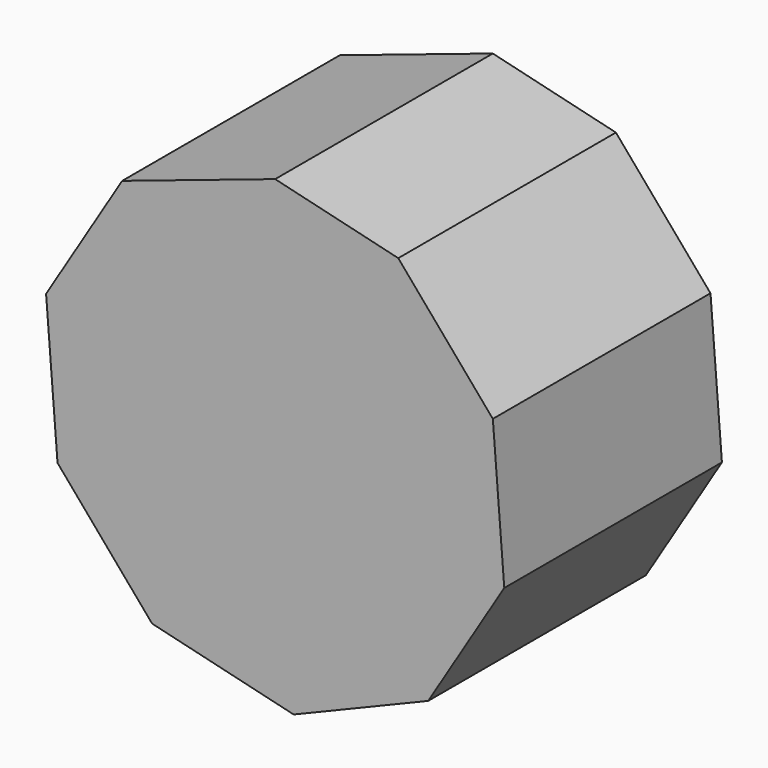
from build123d import *

# Parameters (mm, degrees)
F1_DEPTH = 25.4


with BuildPart() as f1:
    # F0 (on Front) → F1 (new body, symmetric)
    with BuildSketch(Plane.XZ):
        Polygon((-28.572113, 33.450269), (0, 0), (0, 43.027113), align=None)
        Polygon((22.983828, 37.510396), (0, 0), (40.642365, 16.836993), align=None)
        Polygon((42.7769, -10.267569), (0, 0), (28.572113, -33.450269), align=None)
        Polygon((0, 0), (-22.983828, -37.510396), (3.45375, -43.856103), align=None)
        Polygon((-42.7769, 10.267569), (-40.642365, -16.836993), (0, 0), align=None)
        Polygon((-42.7769, 10.267569), (0, 0), (-28.572113, 33.450269), align=None)
        Polygon((0, 43.027113), (0, 0), (22.983828, 37.510396), align=None)
        Polygon((40.642365, 16.836993), (0, 0), (42.7769, -10.267569), align=None)
        Polygon((0, 0), (3.45375, -43.856103), (28.572113, -33.450269), align=None)
        Polygon((-40.642365, -16.836993), (-22.983828, -37.510396), (0, 0), align=None)
    extrude(amount=F1_DEPTH, both=True)


solid = f1.part
